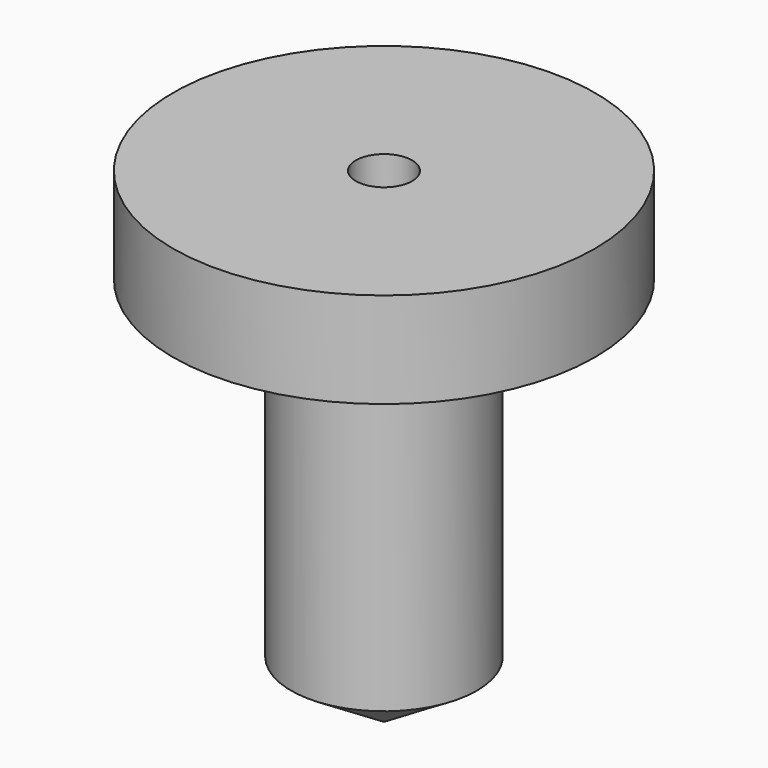
from build123d import *


with BuildPart() as f1:
    # F0 (on Front) → F1 (revolve)
    with BuildSketch(Plane.XZ):
        Polygon((0, 43.707822), (0, 0), (9.583775, 5.953557), (9.583775, 40.222812), (21.781307, 40.222812), (21.781307, 50.097004), (2.904176, 50.097004), (2.904176, 43.707822), align=None)
        Polygon((0, 43.707822), (0, 0), (9.583775, 5.953557), (9.583775, 40.222812), (21.781307, 40.222812), (21.781307, 50.097004), (2.904176, 50.097004), (2.904176, 43.707822), align=None)
    revolve(axis=Axis((0, 0, 21.853911), (0, 0, -1)))


solid = f1.part
